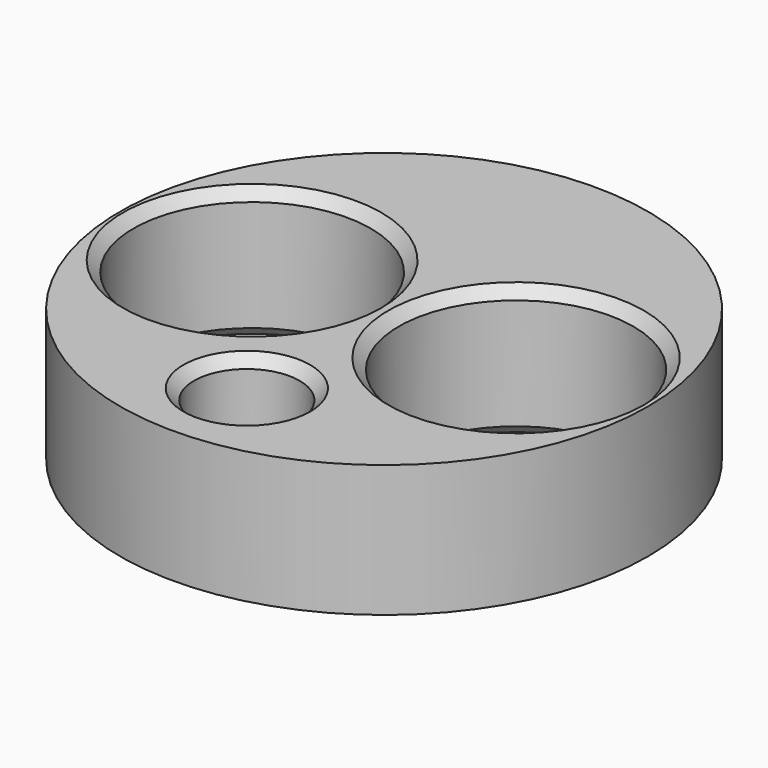
from build123d import *

# Parameters (mm, degrees)
F0_R     = 100
F0_R_2   = 20
F0_R_3   = 44.95
F0_R_4   = 44.45
F1_DEPTH = 50
F2_SIZE  = 4


with BuildPart() as f1:
    # F0 (on Top) → F1 (new body)
    with BuildSketch(Plane.XY):
        Circle(F0_R)
        with Locations((0, -65)):
            Circle(F0_R_2, mode=Mode.SUBTRACT)
        with Locations((-50, 0)):
            Circle(F0_R_3, mode=Mode.SUBTRACT)
        with Locations((50, 0)):
            Circle(F0_R_4, mode=Mode.SUBTRACT)
    extrude(amount=F1_DEPTH)

    # F2
    f2_edges = [f1.edges().sort_by_distance(p)[0] for p in [
        (5.55, 0, 50),
        (-94.95, 0, 50),
        (-20, -65, 50),
        (5.55, 0, 0),
        (-94.95, 0, 0),
        (-20, -65, 0),
    ]]
    chamfer(f2_edges, length=F2_SIZE)


solid = f1.part
